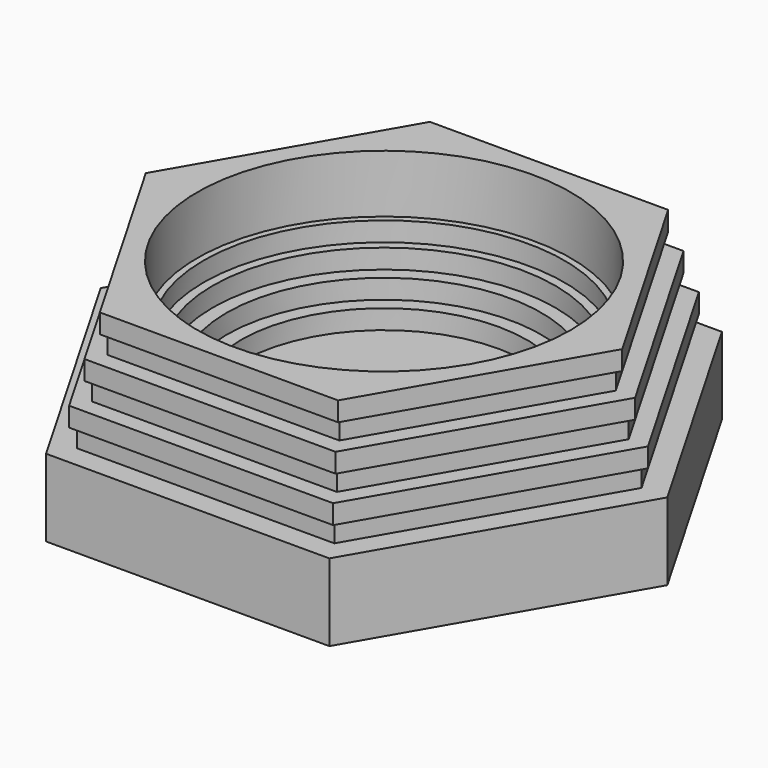
from build123d import *

# Parameters (mm, degrees)
PAD_DEPTH    = 9
SKETCH001_W  = 26.1
SKETCH001_H  = 34.4
POCKET_DEPTH = 3
SKETCH002_R  = 22.22
PAD001_DEPTH = 3
SKETCH003_R  = 24.44
PAD002_DEPTH = 3
SKETCH004_R  = 26.6
PAD003_DEPTH = 3
SKETCH005_R  = 28
PAD004_DEPTH = 3
SKETCH006_R  = 29
PAD005_DEPTH = 3
SKETCH007_R  = 29
PAD006_DEPTH = 3
SKETCH008_R  = 29
PAD007_DEPTH = 3


with BuildPart() as part:
    # Sketch → Pad (new body)
    with BuildSketch(Plane.XY):
        Polygon((44, 0), (22, 38.105118), (-22, 38.105118), (-44, 0), (-22, -38.105118), (22, -38.105118), align=None)
    extrude(amount=PAD_DEPTH)

    # Sketch001 (on Face8 of Pad) → Pocket (cut)
    with BuildSketch(Plane.XY.offset(9)):
        with Locations((0, -13.905118)):
            Rectangle(SKETCH001_W, SKETCH001_H)
    extrude(amount=-POCKET_DEPTH, mode=Mode.SUBTRACT)

    # Sketch002 (on Face5 of Pocket) → Pad001 (join)
    with BuildSketch(Plane.XY.offset(9)):
        Polygon((22, 38.105118), (-22, 38.105118), (-44, 0), (-22, -38.105118), (22, -38.105118), (44, 0), align=None)
        Circle(SKETCH002_R, mode=Mode.SUBTRACT)
    extrude(amount=PAD001_DEPTH)

    # Sketch003 (on Face14 of Pad001) → Pad002 (join)
    with BuildSketch(Plane.XY.offset(12)):
        Polygon((40, 0), (20, 34.641016), (-20, 34.641016), (-40, 0), (-20, -34.641016), (20, -34.641016), align=None)
        Circle(SKETCH003_R, mode=Mode.SUBTRACT)
    extrude(amount=PAD002_DEPTH)

    # Sketch004 (on Face21 of Pad002) → Pad003 (join)
    with BuildSketch(Plane.XY.offset(15)):
        Polygon((41, 0), (20.5, 35.507042), (-20.5, 35.507042), (-41, 0), (-20.5, -35.507042), (20.5, -35.507042), align=None)
        Circle(SKETCH004_R, mode=Mode.SUBTRACT)
    extrude(amount=PAD003_DEPTH)

    # Sketch005 (on Face28 of Pad003) → Pad004 (join)
    with BuildSketch(Plane.XY.offset(18)):
        Polygon((19, 32.908965), (-19, 32.908965), (-38, 0), (-19, -32.908965), (19, -32.908965), (38, 0), align=None)
        Circle(SKETCH005_R, mode=Mode.SUBTRACT)
    extrude(amount=PAD004_DEPTH)

    # Sketch006 (on Face35 of Pad004) → Pad005 (join)
    with BuildSketch(Plane.XY.offset(21)):
        Polygon((39, 0), (19.5, 33.774991), (-19.5, 33.774991), (-39, 0), (-19.5, -33.774991), (19.5, -33.774991), align=None)
        Circle(SKETCH006_R, mode=Mode.SUBTRACT)
    extrude(amount=PAD005_DEPTH)

    # Sketch007 (on Face42 of Pad005) → Pad006 (join)
    with BuildSketch(Plane.XY.offset(24)):
        Polygon((36, 0), (18, 31.176915), (-18, 31.176915), (-36, 0), (-18, -31.176915), (18, -31.176915), align=None)
        Circle(SKETCH007_R, mode=Mode.SUBTRACT)
    extrude(amount=PAD006_DEPTH)

    # Sketch008 (on Face49 of Pad006) → Pad007 (join)
    with BuildSketch(Plane.XY.offset(27)):
        Polygon((37, 0), (18.5, 32.04294), (-18.5, 32.04294), (-37, 0), (-18.5, -32.04294), (18.5, -32.04294), align=None)
        Circle(SKETCH008_R, mode=Mode.SUBTRACT)
    extrude(amount=PAD007_DEPTH)


solid = part.part
